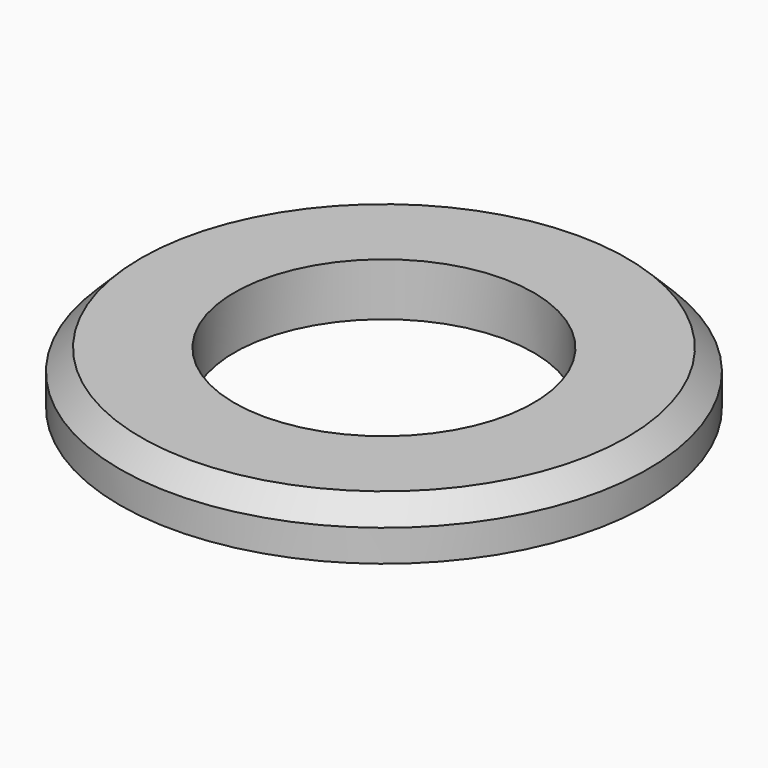
from build123d import *


with BuildPart() as part:
    # Sketch → Revolution (revolve)
    with BuildSketch(Plane.YZ):
        Polygon((8.5, 0), (15, 0), (15, 1.8), (13.8, 3), (8.5, 3), align=None)
    revolve(axis=Axis((0, 0, 0), (0, 0, 1)))


solid = part.part
